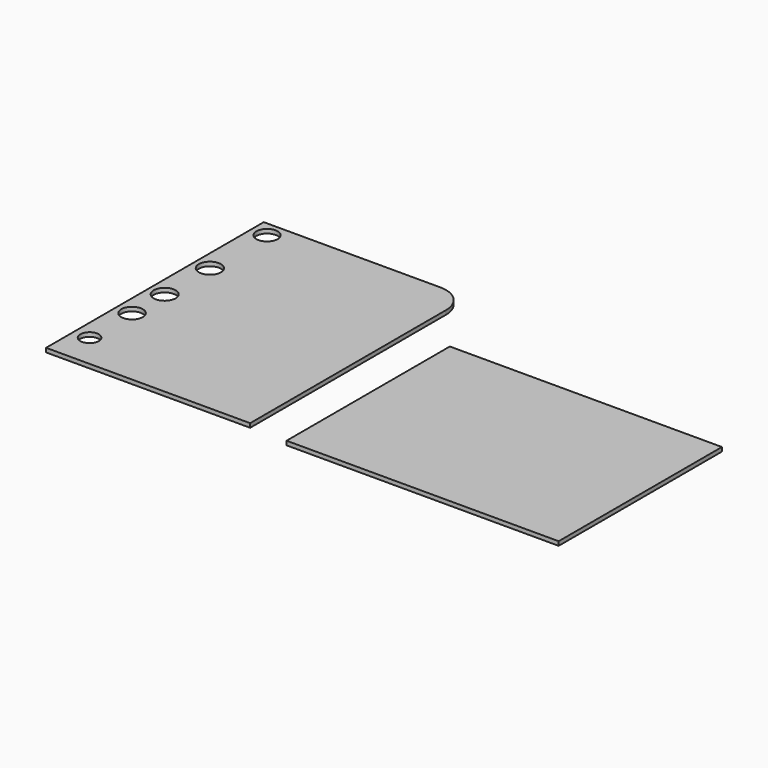
from build123d import *

# Parameters (mm, degrees)
F0_W     = 200
F0_H     = 150
F0_R     = 6.803891
F0_R_2   = 7.909356
F0_R_3   = 8.065977
F0_R_4   = 8.143178
F0_R_5   = 7.813851
F1_DEPTH = 3


with BuildPart() as f1:
    # F0 (on Top) → F1 (new body)
    with BuildSketch(Plane.XY):
        with Locations((-10.779469, -60.377909)):
            Rectangle(F0_W, F0_H)
        with BuildLine():
            Line((-160.71261, 68.592381), (-290.71261, 68.592381))
            Line((-290.71261, 68.592381), (-290.71261, -131.407619))
            Line((-290.71261, -131.407619), (-140.71261, -131.407619))
            Line((-140.71261, -131.407619), (-140.71261, 48.592381))
            ThreePointArc((-140.71261, 48.592381), (-146.570475, 62.734517), (-160.71261, 68.592381))
        make_face()
        with Locations((-279.094696, -105.980933)):
            Circle(F0_R, mode=Mode.SUBTRACT)
        with Locations((-279.094696, -66.962883)):
            Circle(F0_R_2, mode=Mode.SUBTRACT)
        with Locations((-279.094696, -36.948998)):
            Circle(F0_R_3, mode=Mode.SUBTRACT)
        with Locations((-279.094696, 4.570211)):
            Circle(F0_R_4, mode=Mode.SUBTRACT)
        with Locations((-279.094696, 57.094514)):
            Circle(F0_R_5, mode=Mode.SUBTRACT)
        with Locations((-10.779469, -60.377909)):
            Rectangle(F0_W, F0_H)
    extrude(amount=F1_DEPTH)


solid = f1.part
